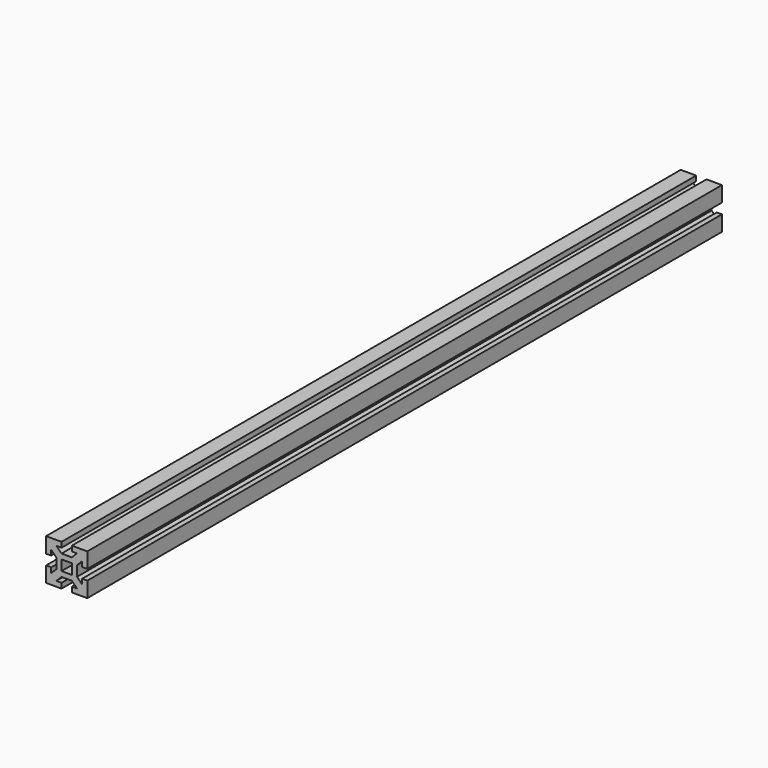
from build123d import *

# Parameters (mm, degrees)
F1_DEPTH = 770


with BuildPart() as f1:
    # F0 (on Front) → F1 (new body)
    with BuildSketch(Plane.XZ):
        Polygon((20, 5), (20, 20), (5, 20), (5, 15), (10, 15), (5, 10), (-5, 10), (-10, 15), (-5, 15), (-5, 20), (-20, 20), (-20, 5), (-15, 5), (-15, 10), (-10, 5), (-10, -5), (-15, -10), (-15, -5), (-20, -5), (-20, -20), (-5, -20), (-5, -15), (-10, -15), (-5, -10), (5, -10), (10, -15), (5, -15), (5, -20), (20, -20), (20, -5), (15, -5), (15, -10), (10, -5), (10, 5), (15, 10), (15, 5), align=None)
        Polygon((-5, 0), (-5, 5), (0, 5), (5, 5), (5, 0), (5, -5), (0, -5), (-5, -5), align=None, mode=Mode.SUBTRACT)
    extrude(amount=F1_DEPTH)


solid = f1.part
